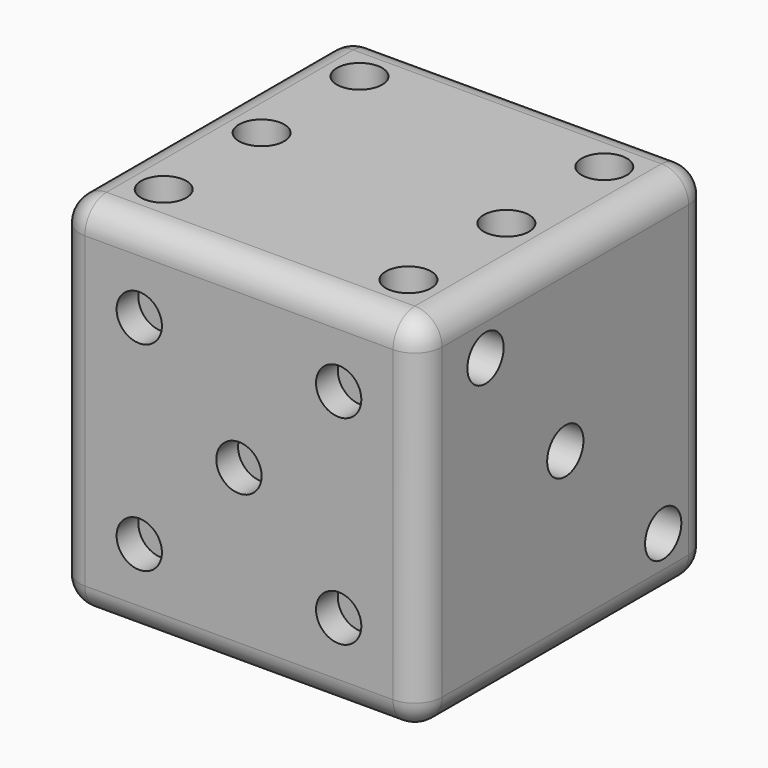
from build123d import *

# Parameters (mm, degrees)
F0_W      = 20
F0_H      = 20
F1_DEPTH  = 20
F2_R      = 1.5
F3_R      = 1.25
F4_DEPTH  = 2
F5_R      = 1.25
F6_DEPTH  = 1.5
F7_R      = 1.25
F8_DEPTH  = 2
F9_R      = 1.25
F10_DEPTH = 1.9
F11_R     = 1.25
F12_DEPTH = 1.9
F13_R     = 1.25
F14_DEPTH = 2


with BuildPart() as f1:
    # F0 (on Top) → F1 (new body)
    with BuildSketch(Plane.XY):
        Rectangle(F0_W, F0_H)
    extrude(amount=F1_DEPTH)

    # F2
    f2_edges = [f1.edges().sort_by_distance(p)[0] for p in [
        (10, 10, 10),
        (-10, 10, 10),
        (0, 10, 0),
        (0, 10, 20),
        (-10, -10, 10),
        (10, -10, 10),
        (0, -10, 0),
        (0, -10, 20),
        (-10, 0, 20),
        (10, 0, 20),
        (10, 0, 0),
        (-10, 0, 0),
    ]]
    fillet(f2_edges, radius=F2_R)

    # F3 (on face) → F4 (cut)
    with BuildSketch(Plane.YZ.offset(10)):
        with Locations((-5.5, 16.75)):
            Circle(F3_R)
        with Locations((0, 10)):
            Circle(F3_R)
        with Locations((6.75, 3.25)):
            Circle(F3_R)
    extrude(amount=-F4_DEPTH, mode=Mode.SUBTRACT)

    # F5 (on face) → F6 (cut)
    with BuildSketch(Plane.XZ.offset(10)):
        with Locations((-5.5, 4.5)):
            Circle(F5_R)
        with Locations((5.5, 15.5)):
            Circle(F5_R)
        with Locations((-5.5, 15.5)):
            Circle(F5_R)
        with Locations((0, 10)):
            Circle(F5_R)
        with Locations((5.5, 4.5)):
            Circle(F5_R)
    extrude(amount=-F6_DEPTH, mode=Mode.SUBTRACT)

    # F7 (on face) → F8 (cut)
    with BuildSketch(Plane(origin=(0, 10, 0), x_dir=(-1, 0, 0), z_dir=(0, 1, 0))):
        with Locations((-5.5, 15.5)):
            Circle(F7_R)
        with Locations((5.5, 4.5)):
            Circle(F7_R)
    extrude(amount=-F8_DEPTH, mode=Mode.SUBTRACT)

    # F9 (on face) → F10 (cut)
    with BuildSketch(Plane(origin=(-10, 0, 0), x_dir=(0, -1, 0), z_dir=(-1, 0, 0))):
        with Locations((-6.75, 3.25)):
            Circle(F9_R)
        with Locations((5.5, 16.75)):
            Circle(F9_R)
        with Locations((6.75, 3.25)):
            Circle(F9_R)
        with Locations((-6.75, 16.75)):
            Circle(F9_R)
    extrude(amount=-F10_DEPTH, mode=Mode.SUBTRACT)

    # F11 (on face) → F12 (cut)
    with BuildSketch(Plane.XY.offset(20)):
        with Locations((-6.75, 6.75)):
            Circle(F11_R)
        with Locations((-6.75, -6.75)):
            Circle(F11_R)
        with Locations((-6.75, 0)):
            Circle(F11_R)
        with Locations((6.75, 6.75)):
            Circle(F11_R)
        with Locations((6.75, 0)):
            Circle(F11_R)
        with Locations((6.75, -6.75)):
            Circle(F11_R)
    extrude(amount=-F12_DEPTH, mode=Mode.SUBTRACT)

    # F13 (on face) → F14 (cut)
    with BuildSketch(Plane(origin=(0, 0, 0), x_dir=(1, 0, 0), z_dir=(0, 0, -1))):
        Circle(F13_R)
    extrude(amount=-F14_DEPTH, mode=Mode.SUBTRACT)


solid = f1.part
